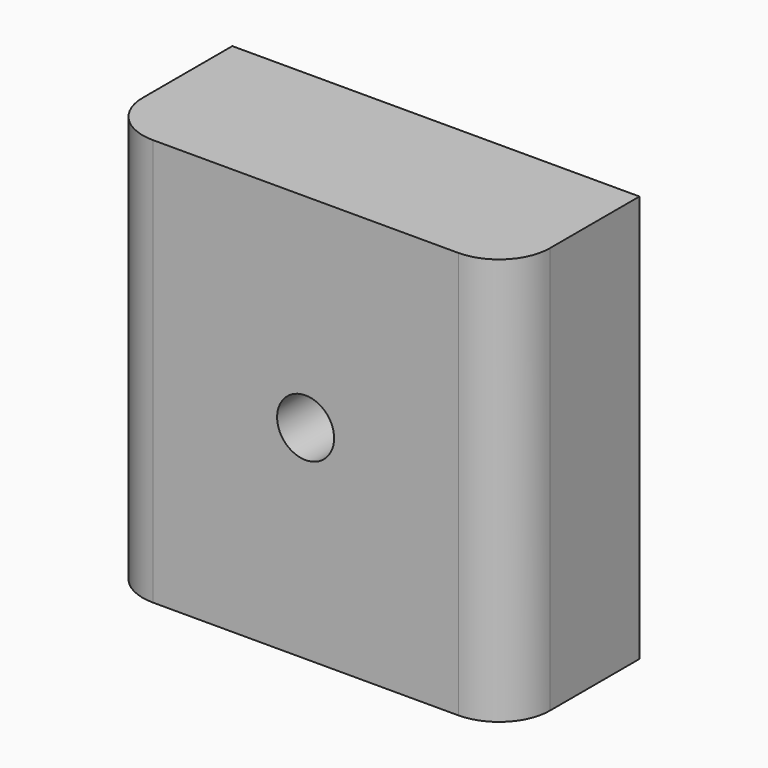
from build123d import *

# Parameters (mm, degrees)
F0_W     = 25.4
F0_H     = 25.4
F0_R     = 1.778
F1_DEPTH = 10.16
F2_R     = 3.175


with BuildPart() as f1:
    # F0 (on Front) → F1 (new body)
    with BuildSketch(Plane.XZ):
        with Locations((18.961715, -10.547113)):
            Rectangle(F0_W, F0_H)
        with Locations((18.961715, -10.547113)):
            Circle(F0_R, mode=Mode.SUBTRACT)
    extrude(amount=F1_DEPTH)

    # F2
    f2_edges = [f1.edges().sort_by_distance(p)[0] for p in [
        (6.261715, -10.16, -10.547113),
        (31.661715, -10.16, -10.547113),
    ]]
    fillet(f2_edges, radius=F2_R)


solid = f1.part
